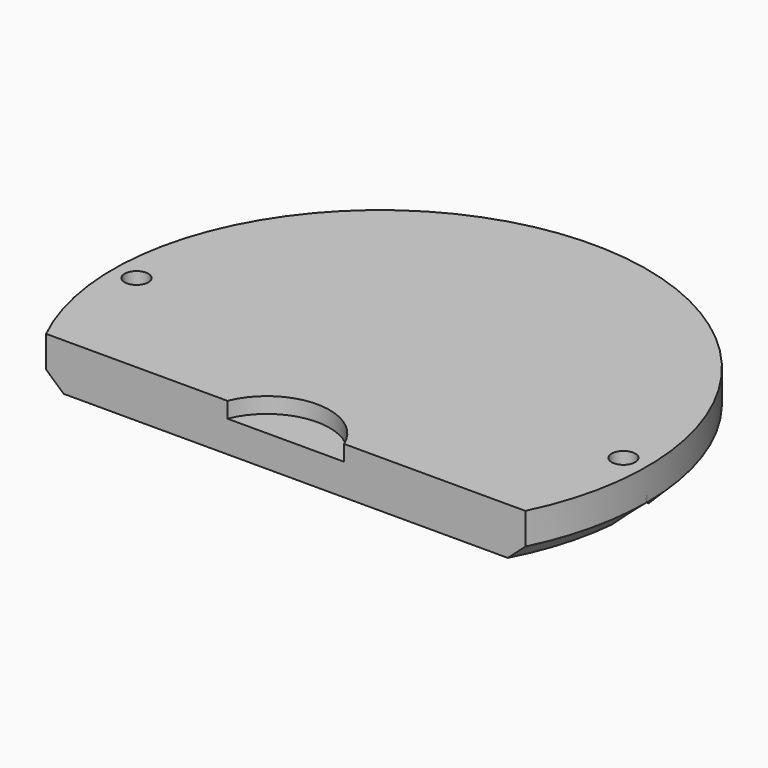
from build123d import *

# Parameters (mm, degrees)
CYLINDER2077_R               = 1.5
CYLINDER2077_DEPTH           = 50
CYLINDER2077_PLACEMENT_ANGLE = 45
CYLINDER2066_R               = 1.5
CYLINDER2066_DEPTH           = 50
CYLINDER2066_PLACEMENT_ANGLE = 45
CYLINDER2089_R               = 1.5
CYLINDER2089_DEPTH           = 50
CYLINDER2089_PLACEMENT_ANGLE = 45
CYLINDER2075_R               = 1.5
CYLINDER2075_DEPTH           = 50
CYLINDER2075_PLACEMENT_ANGLE = 45
CYLINDER2093_R               = 1.5
CYLINDER2093_DEPTH           = 50
CYLINDER2093_PLACEMENT_ANGLE = 45
CYLINDER2090_R               = 1.5
CYLINDER2090_DEPTH           = 50
CYLINDER2090_PLACEMENT_ANGLE = 45
CYLINDER2078_R               = 3
CYLINDER2078_DEPTH           = 3
CYLINDER2078_PLACEMENT_ANGLE = 45
CYLINDER2087_R               = 3
CYLINDER2087_DEPTH           = 3
CYLINDER2087_PLACEMENT_ANGLE = 45
CYLINDER2086_R               = 3
CYLINDER2086_DEPTH           = 3
CYLINDER2086_PLACEMENT_ANGLE = 45
CYLINDER2079_R               = 3
CYLINDER2079_DEPTH           = 3
CYLINDER2079_PLACEMENT_ANGLE = 45
CYLINDER2084_R               = 3
CYLINDER2084_DEPTH           = 3
CYLINDER2084_PLACEMENT_ANGLE = 45
CYLINDER2082_R               = 3
CYLINDER2082_DEPTH           = 3
CYLINDER2082_PLACEMENT_ANGLE = 45
CYLINDER2073_R               = 8
CYLINDER2073_DEPTH           = 6
BOX990_W                     = 148
BOX990_H                     = 40
BOX990_DEPTH                 = 40
CYLINDER2072_R               = 34
CYLINDER2072_DEPTH           = 6
CHAMFER079_SIZE              = 2


with BuildPart() as obj1:
    # Cylinder2077 → Cylinder2077 (new body)
    with BuildSketch(Plane.XY):
        Circle(CYLINDER2077_R)
    extrude(amount=CYLINDER2077_DEPTH)


with BuildPart() as obj1_1:
    # Cylinder2077 placement: moved
    add(obj1.part.moved(Location((20, 137, 0))).rotate(Axis((20, 137, 0), (0, 0, 1)), CYLINDER2077_PLACEMENT_ANGLE))


with BuildPart() as compound1111:
    # Cylinder2066 → Cylinder2066 (new body)
    with BuildSketch(Plane.XY):
        Circle(CYLINDER2066_R)
    extrude(amount=CYLINDER2066_DEPTH)


with BuildPart() as compound1111_1:
    # Cylinder2066 placement: moved
    add(compound1111.part.moved(Location((-20, 137, 0))).rotate(Axis((-20, 137, 0), (0, 0, 1)), CYLINDER2066_PLACEMENT_ANGLE))

    # Compound1111: union obj1
    add(obj1_1.part)


with BuildPart() as obj2:
    # Cylinder2089 → Cylinder2089 (new body)
    with BuildSketch(Plane.XY):
        Circle(CYLINDER2089_R)
    extrude(amount=CYLINDER2089_DEPTH)


with BuildPart() as obj2_1:
    # Cylinder2089 placement: moved
    add(obj2.part.moved(Location((31, 131, 0))).rotate(Axis((31, 131, 0), (0, 0, 1)), CYLINDER2089_PLACEMENT_ANGLE))


with BuildPart() as compound1108:
    # Cylinder2075 → Cylinder2075 (new body)
    with BuildSketch(Plane.XY):
        Circle(CYLINDER2075_R)
    extrude(amount=CYLINDER2075_DEPTH)


with BuildPart() as compound1108_1:
    # Cylinder2075 placement: moved
    add(compound1108.part.moved(Location((-31, 131, 0))).rotate(Axis((-31, 131, 0), (0, 0, 1)), CYLINDER2075_PLACEMENT_ANGLE))

    # Compound1108: union obj2
    add(obj2_1.part)


with BuildPart() as obj3:
    # Cylinder2093 → Cylinder2093 (new body)
    with BuildSketch(Plane.XY):
        Circle(CYLINDER2093_R)
    extrude(amount=CYLINDER2093_DEPTH)


with BuildPart() as obj3_1:
    # Cylinder2093 placement: moved
    add(obj3.part.moved(Location((31, 101, 0))).rotate(Axis((31, 101, 0), (0, 0, 1)), CYLINDER2093_PLACEMENT_ANGLE))


with BuildPart() as compound1092:
    # Cylinder2090 → Cylinder2090 (new body)
    with BuildSketch(Plane.XY):
        Circle(CYLINDER2090_R)
    extrude(amount=CYLINDER2090_DEPTH)


with BuildPart() as compound1092_1:
    # Cylinder2090 placement: moved
    add(compound1092.part.moved(Location((-31, 101, 0))).rotate(Axis((-31, 101, 0), (0, 0, 1)), CYLINDER2090_PLACEMENT_ANGLE))

    # Compound1100: union obj3
    add(obj3_1.part)

    # Compound1092: union Compound1111, Compound1108
    add(compound1111_1.part)
    add(compound1108_1.part)


with BuildPart() as obj4:
    # Cylinder2078 → Cylinder2078 (new body)
    with BuildSketch(Plane.XY):
        Circle(CYLINDER2078_R)
    extrude(amount=CYLINDER2078_DEPTH)


with BuildPart() as obj4_1:
    # Cylinder2078 placement: moved
    add(obj4.part.moved(Location((31, 131, 0))).rotate(Axis((31, 131, 0), (0, 0, 1)), CYLINDER2078_PLACEMENT_ANGLE))


with BuildPart() as compound1094:
    # Cylinder2087 → Cylinder2087 (new body)
    with BuildSketch(Plane.XY):
        Circle(CYLINDER2087_R)
    extrude(amount=CYLINDER2087_DEPTH)


with BuildPart() as compound1094_1:
    # Cylinder2087 placement: moved
    add(compound1094.part.moved(Location((-31, 131, 0))).rotate(Axis((-31, 131, 0), (0, 0, 1)), CYLINDER2087_PLACEMENT_ANGLE))

    # Compound1094: union obj4
    add(obj4_1.part)


with BuildPart() as compound1094_2:
    # Compound1094 placement: moved
    add(compound1094_1.part.moved(Location((0, 0, 25))))


with BuildPart() as obj5:
    # Cylinder2086 → Cylinder2086 (new body)
    with BuildSketch(Plane.XY):
        Circle(CYLINDER2086_R)
    extrude(amount=CYLINDER2086_DEPTH)


with BuildPart() as obj5_1:
    # Cylinder2086 placement: moved
    add(obj5.part.moved(Location((31, 101, 0))).rotate(Axis((31, 101, 0), (0, 0, 1)), CYLINDER2086_PLACEMENT_ANGLE))


with BuildPart() as compound1095:
    # Cylinder2079 → Cylinder2079 (new body)
    with BuildSketch(Plane.XY):
        Circle(CYLINDER2079_R)
    extrude(amount=CYLINDER2079_DEPTH)


with BuildPart() as compound1095_1:
    # Cylinder2079 placement: moved
    add(compound1095.part.moved(Location((-31, 101, 0))).rotate(Axis((-31, 101, 0), (0, 0, 1)), CYLINDER2079_PLACEMENT_ANGLE))

    # Compound1095: union obj5
    add(obj5_1.part)


with BuildPart() as compound1095_2:
    # Compound1095 placement: moved
    add(compound1095_1.part.moved(Location((0, 0, 21))))


with BuildPart() as obj6:
    # Cylinder2084 → Cylinder2084 (new body)
    with BuildSketch(Plane.XY):
        Circle(CYLINDER2084_R)
    extrude(amount=CYLINDER2084_DEPTH)


with BuildPart() as obj6_1:
    # Cylinder2084 placement: moved
    add(obj6.part.moved(Location((20, 137, 0))).rotate(Axis((20, 137, 0), (0, 0, 1)), CYLINDER2084_PLACEMENT_ANGLE))


with BuildPart() as compound1093:
    # Cylinder2082 → Cylinder2082 (new body)
    with BuildSketch(Plane.XY):
        Circle(CYLINDER2082_R)
    extrude(amount=CYLINDER2082_DEPTH)


with BuildPart() as compound1093_1:
    # Cylinder2082 placement: moved
    add(compound1093.part.moved(Location((-20, 137, 0))).rotate(Axis((-20, 137, 0), (0, 0, 1)), CYLINDER2082_PLACEMENT_ANGLE))

    # Compound1102: union obj6
    add(obj6_1.part)


with BuildPart() as compound1093_2:
    # Compound1102 placement: moved
    add(compound1093_1.part.moved(Location((0, 0, 25))))

    # Compound1093: union Compound1094, Compound1095
    add(compound1094_2.part)
    add(compound1095_2.part)


with BuildPart() as obj7:
    # Cylinder2073 → Cylinder2073 (new body)
    with BuildSketch(Plane(origin=(0, 83, 25), x_dir=(1, 0, 0), z_dir=(0, 0, 1))):
        Circle(CYLINDER2073_R)
    extrude(amount=CYLINDER2073_DEPTH)


with BuildPart() as krychle990:
    # Box990 → Box990 (new body)
    with BuildSketch(Plane(origin=(-74, 46, 16), x_dir=(1, 0, 0), z_dir=(0, 0, 1))):
        with Locations((74, 20)):
            Rectangle(BOX990_W, BOX990_H)
    extrude(amount=BOX990_DEPTH)


with BuildPart() as cut688:
    # Cylinder2072 → Cylinder2072 (new body)
    with BuildSketch(Plane(origin=(0, 101, 21), x_dir=(1, 0, 0), z_dir=(0, 0, 1))):
        Circle(CYLINDER2072_R)
    extrude(amount=CYLINDER2072_DEPTH)

    # Cut693: cut Krychle990
    add(krychle990.part, mode=Mode.SUBTRACT)

    # Cut684: cut obj7
    add(obj7.part, mode=Mode.SUBTRACT)

    # Chamfer079
    chamfer079_edges = [cut688.edges().sort_by_distance(p)[0] for p in [
        (-7.700067, 134.116597, 21),
    ]]
    chamfer(chamfer079_edges, length=CHAMFER079_SIZE)

    # Cut694: cut Compound1093
    add(compound1093_2.part, mode=Mode.SUBTRACT)

    # Cut688: cut Compound1092
    add(compound1092_1.part, mode=Mode.SUBTRACT)


solid = cut688.part
